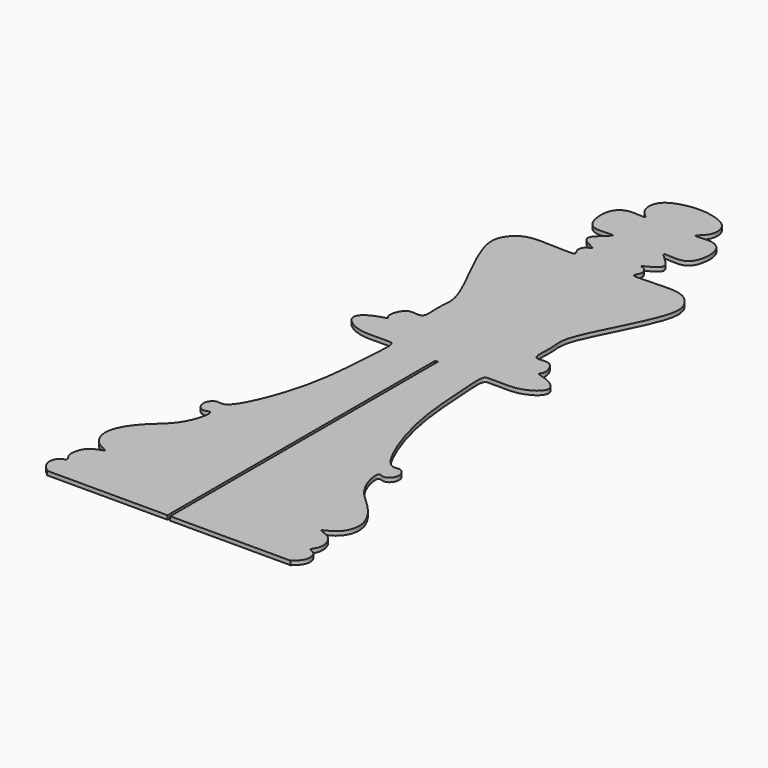
from build123d import *

# Parameters (mm, degrees)
F1_DEPTH = 3


with BuildPart() as f1:
    # F0 (on Top) → F1 (new body)
    with BuildSketch(Plane.XY):
        with BuildLine():
            add(Edge.make_bspline(
                [(90.9894779325, -249.9898374081), (93.5423084812, -247.6994433289), (98.7261095267, -243.0594878918), (96.3717963405, -233.002246845), (88.9209162181, -232.1425823387), (95.5797614962, -226.3473827392), (91.5836794418, -211.0809255461), (76.5998108247, -209.1742101838), (90.4931932063, -205.4560381133), (98.4040190951, -188.7616252338), (84.8804606225, -168.4829575198), (70.7689072457, -158.3322873851), (62.8379831471, -143.2413384436), (61.557023586, -130.431832811), (67.6542333179, -134.5346761668), (72.8062443375, -130.5436162337), (73.8025544125, -123.982922157), (68.6727398931, -118.4366341751), (58.7058329409, -123.9708810166), (36.3025994821, -69.651977773), (35.164596349, -20.9878259104), (32.5521242658, 2.8394716537), (39.0369635764, 1.9394730546), (45.0657788443, 2.3218964827), (59.2994622567, 1.3707494807), (72.5719191699, 8.7342849114), (73.7246470696, 16.9759574494), (63.7074459018, 23.0474340322), (54.8274264315, 24.486493145), (59.6455092177, 27.4410399071), (54.5159396801, 43.0468686734), (39.3539196624, 35.8742461569), (42.9989626849, 56.1690837908), (36.9830458164, 70.8756444867), (75.3117804583, 132.1733387746), (66.5967353794, 150.5007923418), (54.0696200833, 159.4409074932), (17.0505556383, 153.4254633293), (25.2609582787, 161.1783845586), (22.1365981425, 167.5806007909), (14.7019530635, 168.4961773878), (37.8144356801, 175.4808323626), (10.6566023155, 191.8814352096), (33.8169514641, 186.1145341709), (41.0946330208, 196.9381785014), (40.9718122924, 213.3158447979), (30.880649311, 219.9158241613), (14.5059824129, 216.463817929), (26.4591252681, 223.9192586975), (25.9221908143, 240.1832175197), (8.8626047614, 244.964838391), (3.0191772027, 245.4614464803), (1, 245.419665973)],
                knots=[0, 0, 0, 0, 0.0180780853, 0.0347531213, 0.0470641149, 0.0606824905, 0.082352678, 0.0994547179, 0.1158616148, 0.1392633154, 0.1663959645, 0.1906043851, 0.2147209883, 0.2318230344, 0.2436723223, 0.2572198202, 0.2714307317, 0.2853999587, 0.2999146289, 0.3409079292, 0.3840879897, 0.4084447206, 0.419714688, 0.4339027925, 0.4556593293, 0.4773062065, 0.491496902, 0.5109410664, 0.5257336488, 0.5355257348, 0.5558123934, 0.5739340212, 0.5952671467, 0.6191769312, 0.6663842356, 0.689853768, 0.7124976679, 0.7436344098, 0.7559670404, 0.7705719679, 0.7806682913, 0.8011642023, 0.8234239266, 0.8434337495, 0.8633636557, 0.8853927856, 0.9047200707, 0.9233275392, 0.9391772054, 0.9603162416, 0.9836366812, 0.9976573166, 0.9976573166, 0.9976573166, 0.9976573166], degree=3))
            Line((1, 245.419665973), (1, 0))
            Line((1, 0), (1, -249.9898374081))
            Line((1, -249.9898374081), (90.9894779325, -249.9898374081))
        make_face()
        with BuildLine():
            Line((-1, 0), (-1, 245.419665973))
            add(Edge.make_bspline(
                [(-90.9894779325, -249.9898374081), (-93.5423084812, -247.6994433289), (-98.7261095267, -243.0594878918), (-96.3717963405, -233.002246845), (-88.9209162181, -232.1425823387), (-95.5797614962, -226.3473827392), (-91.5836794418, -211.0809255461), (-76.5998108247, -209.1742101838), (-90.4931932063, -205.4560381133), (-98.4040190951, -188.7616252338), (-84.8804606225, -168.4829575198), (-70.7689072457, -158.3322873851), (-62.8379831471, -143.2413384436), (-61.557023586, -130.431832811), (-67.6542333179, -134.5346761668), (-72.8062443375, -130.5436162337), (-73.8025544125, -123.982922157), (-68.6727398931, -118.4366341751), (-58.7058329409, -123.9708810166), (-36.3025994821, -69.651977773), (-35.164596349, -20.9878259104), (-32.5521242658, 2.8394716537), (-39.0369635764, 1.9394730546), (-45.0657788443, 2.3218964827), (-59.2994622567, 1.3707494807), (-72.5719191699, 8.7342849114), (-73.7246470696, 16.9759574494), (-63.7074459018, 23.0474340322), (-54.8274264315, 24.486493145), (-59.6455092177, 27.4410399071), (-54.5159396801, 43.0468686734), (-39.3539196624, 35.8742461569), (-42.9989626849, 56.1690837908), (-36.9830458164, 70.8756444867), (-75.3117804583, 132.1733387746), (-66.5967353794, 150.5007923418), (-54.0696200833, 159.4409074932), (-17.0505556383, 153.4254633293), (-25.2609582787, 161.1783845586), (-22.1365981425, 167.5806007909), (-14.7019530635, 168.4961773878), (-37.8144356801, 175.4808323626), (-10.6566023155, 191.8814352096), (-33.8169514641, 186.1145341709), (-41.0946330208, 196.9381785014), (-40.9718122924, 213.3158447979), (-30.880649311, 219.9158241613), (-14.5059824129, 216.463817929), (-26.4591252681, 223.9192586975), (-25.9221908143, 240.1832175197), (-8.8626047614, 244.964838391), (-3.0191772027, 245.4614464803), (-1, 245.419665973)],
                knots=[0, 0, 0, 0, 0.0180780853, 0.0347531213, 0.0470641149, 0.0606824905, 0.082352678, 0.0994547179, 0.1158616148, 0.1392633154, 0.1663959645, 0.1906043851, 0.2147209883, 0.2318230344, 0.2436723223, 0.2572198202, 0.2714307317, 0.2853999587, 0.2999146289, 0.3409079292, 0.3840879897, 0.4084447206, 0.419714688, 0.4339027925, 0.4556593293, 0.4773062065, 0.491496902, 0.5109410664, 0.5257336488, 0.5355257348, 0.5558123934, 0.5739340212, 0.5952671467, 0.6191769312, 0.6663842356, 0.689853768, 0.7124976679, 0.7436344098, 0.7559670404, 0.7705719679, 0.7806682913, 0.8011642023, 0.8234239266, 0.8434337495, 0.8633636557, 0.8853927856, 0.9047200707, 0.9233275392, 0.9391772054, 0.9603162416, 0.9836366812, 0.9976573166, 0.9976573166, 0.9976573166, 0.9976573166], degree=3))
            Line((-90.9894779325, -249.9898374081), (-1, -249.9898374081))
            Line((-1, -249.9898374081), (-1, 0))
        make_face()
        with BuildLine():
            add(Edge.make_bspline(
                [(1, 245.419665973), (0.662619224, 245.4126849413), (0.3301209164, 245.3993316735), (0, 245.3802227974)],
                knots=[0.9976573166, 0.9976573166, 0.9976573166, 0.9976573166, 1, 1, 1, 1], degree=3))
            Line((0, 245.3802227974), (0, 0))
            Line((0, 0), (1, 0))
            Line((1, 0), (1, 245.419665973))
        make_face()
        with BuildLine():
            Line((0, 0), (0, 245.3802227974))
            add(Edge.make_bspline(
                [(-1, 245.419665973), (-0.662619224, 245.4126849413), (-0.3301209164, 245.3993316735), (0, 245.3802227974)],
                knots=[0.9976573166, 0.9976573166, 0.9976573166, 0.9976573166, 1, 1, 1, 1], degree=3))
            Line((-1, 245.419665973), (-1, 0))
            Line((-1, 0), (0, 0))
        make_face()
    extrude(amount=F1_DEPTH)


solid = f1.part
